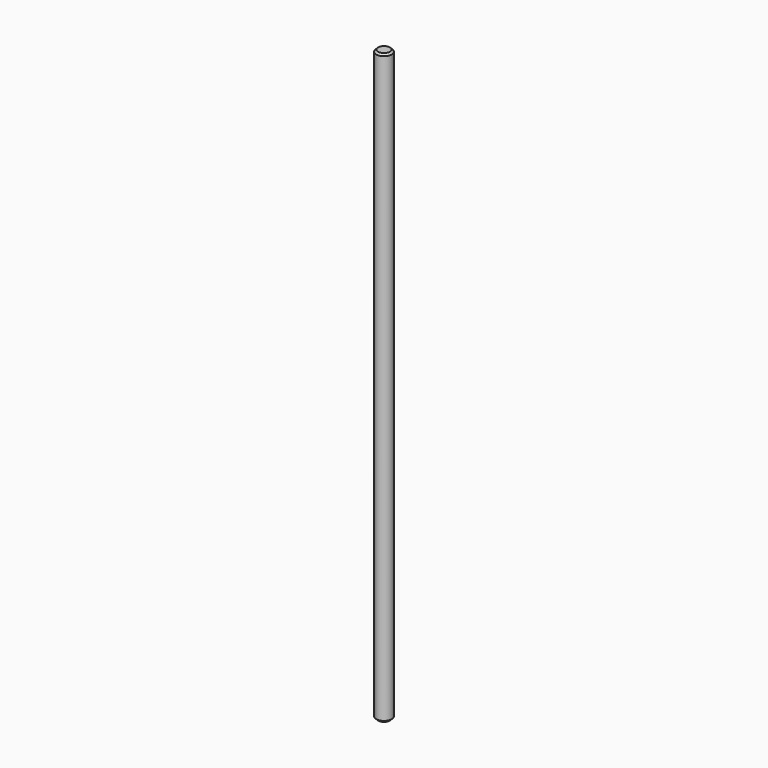
from build123d import *

# Parameters (mm, degrees)
SKETCH_R     = 2.1
PAD_DEPTH    = 160
CHAMFER_SIZE = 0.5


with BuildPart() as part:
    # Sketch → Pad (new body)
    with BuildSketch(Plane.XY):
        Circle(SKETCH_R)
    extrude(amount=PAD_DEPTH)

    # Chamfer
    chamfer_edges = [part.edges().sort_by_distance(p)[0] for p in [
        (-2.1, 0, 160),
        (-2.1, 0, 0),
    ]]
    chamfer(chamfer_edges, length=CHAMFER_SIZE)


solid = part.part
